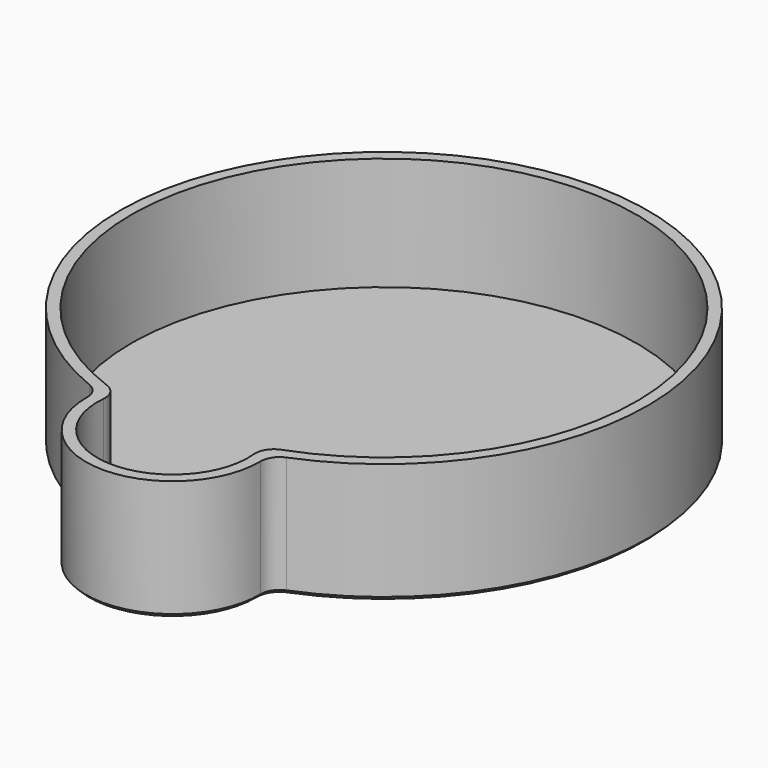
from build123d import *

# Parameters (mm, degrees)
F1_DEPTH = 30
F3_DEPTH = 2
F4_SIZE  = 1


with BuildPart() as f1:
    # F0 (on Top) → F1 (new body)
    with BuildSketch(Plane.XY):
        with BuildLine():
            ThreePointArc((22.997395, -69.653827), (23.832678, -66.810928), (26.130373, -64.94))
            ThreePointArc((26.130373, -64.94), (0, 70), (-26.130373, -64.94))
            ThreePointArc((-26.130373, -64.94), (-23.832678, -66.810928), (-22.997395, -69.653827))
            ThreePointArc((-22.997395, -69.653827), (0, -93), (22.997395, -69.653827))
        make_face()
        with BuildLine():
            ThreePointArc((-23.153211, -62.872321), (0, 67), (23.153211, -62.872321))
            ThreePointArc((23.153211, -62.872321), (20.645274, -64.907579), (19.90485, -68.051429))
            ThreePointArc((19.90485, -68.051429), (0, -90), (-19.90485, -68.051429))
            ThreePointArc((-19.90485, -68.051429), (-20.645274, -64.907579), (-23.153211, -62.872321))
        make_face(mode=Mode.SUBTRACT)
    extrude(amount=F1_DEPTH)

    # F2 (on Top) → F3 (join)
    with BuildSketch(Plane.XY):
        with BuildLine():
            ThreePointArc((22.997395, -69.653827), (23.832678, -66.810928), (26.130373, -64.94))
            ThreePointArc((26.130373, -64.94), (0, 70), (-26.130373, -64.94))
            ThreePointArc((-26.130373, -64.94), (-23.832678, -66.810928), (-22.997395, -69.653827))
            ThreePointArc((-22.997395, -69.653827), (0, -93), (22.997395, -69.653827))
        make_face()
    extrude(amount=-F3_DEPTH)

    # F4
    f4_edges = [f1.edges().sort_by_distance(p)[0] for p in [
        (0, 70, -2),
    ]]
    chamfer(f4_edges, length=F4_SIZE)


solid = f1.part
